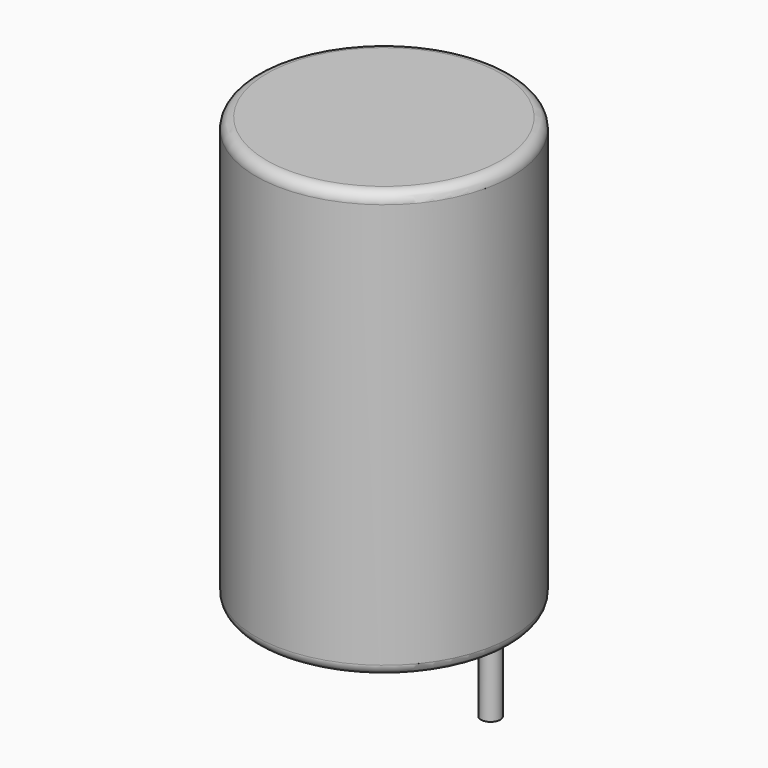
from build123d import *

# Parameters (mm, degrees)
SKETCH001_R       = 0.45
PAD001_DEPTH      = 10
PAD001_DEPTH_BACK = 3.5
SKETCH_R          = 6
PAD_DEPTH         = 20
FILLET_R          = 0.5


with BuildPart() as pad001:
    # Sketch001 → Pad001 (new body, two sides)
    with BuildSketch(Plane.XY.offset(0.5)) as pad001_sk:
        Circle(SKETCH001_R)
        with Locations((10, 0)):
            Circle(SKETCH001_R)
    extrude(amount=PAD001_DEPTH)
    extrude(pad001_sk.sketch, amount=-PAD001_DEPTH_BACK)


with BuildPart() as obj1:
    # Sketch → Pad (new body)
    with BuildSketch(Plane.XY.offset(0.1)):
        with Locations((5, 0)):
            Circle(SKETCH_R)
    extrude(amount=PAD_DEPTH)

    # Fillet
    fillet_edges = [obj1.edges().sort_by_distance(p)[0] for p in [
        (-1, 0, 0.1),
        (-1, 0, 20.1),
    ]]
    fillet(fillet_edges, radius=FILLET_R)

    # obj1: union Pad001
    add(pad001.part)


solid = obj1.part
